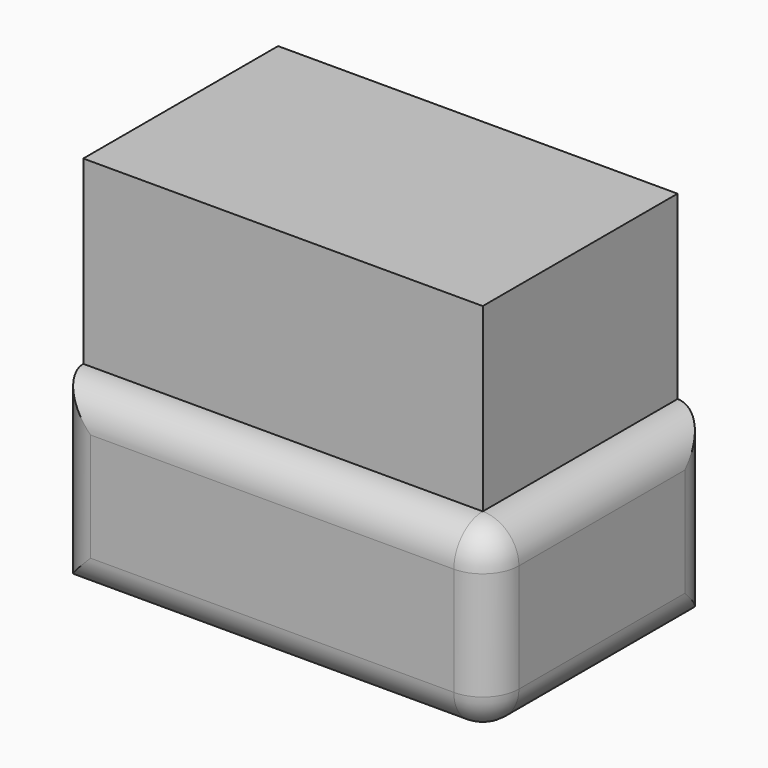
from build123d import *

# Parameters (mm, degrees)
F0_W      = 61.210394
F0_H      = 39.28775
F1_DEPTH  = 25.4
F2_R      = 5.08
F1_FACE_W = 56.130394
F1_FACE_H = 34.20775
F3_DEPTH  = 25.4


with BuildPart() as f1:
    # F0 (on Top) → F1 (new body)
    with BuildSketch(Plane.XY):
        with Locations((30.605197, 19.643875)):
            Rectangle(F0_W, F0_H)
    extrude(amount=F1_DEPTH)

    # F2
    f2_edges = [f1.edges().sort_by_distance(p)[0] for p in [
        (0, 0, 12.7),
        (61.210394, 0, 12.7),
        (30.605197, 0, 0),
        (30.605197, 0, 25.4),
        (61.210394, 19.643875, 25.4),
        (61.210394, 39.28775, 12.7),
        (61.210394, 19.643875, 0),
    ]]
    fillet(f2_edges, radius=F2_R)

    # F1_face (on face) → F3 (join)
    with BuildSketch(Plane(origin=(28.065197, 22.183875, 25.4), x_dir=(1, 0, 0), z_dir=(0, 0, 1))):
        Rectangle(F1_FACE_W, F1_FACE_H)
    extrude(amount=F3_DEPTH)


solid = f1.part
